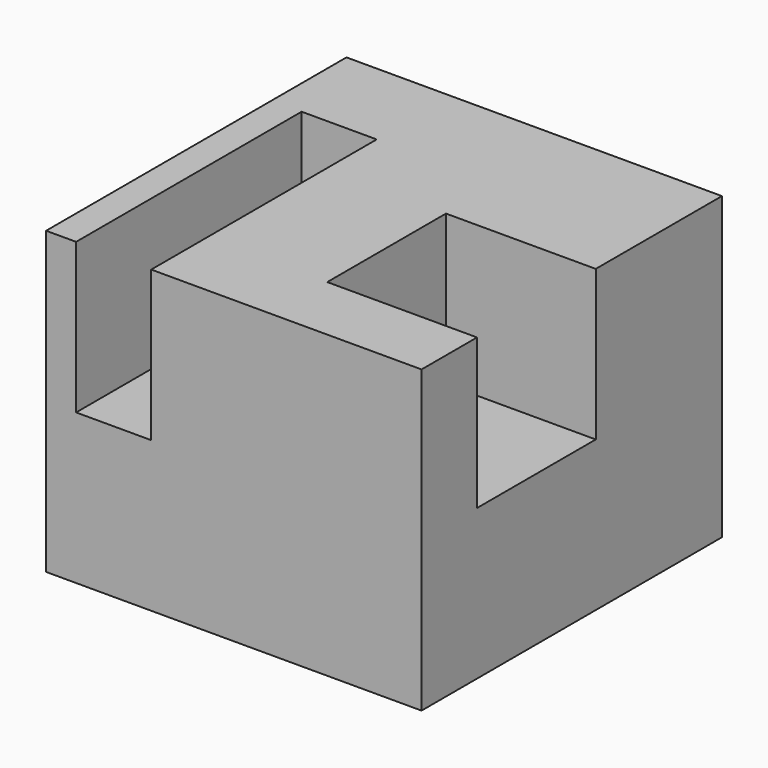
from build123d import *

# Parameters (mm, degrees)
F0_W     = 63.5
F0_H     = 50.8
F1_DEPTH = 63.5
F2_W     = 25.3320866376
F2_H     = 25.1011773944
F2_W_2   = 12.7
F2_H_2   = 63.5
F3_DEPTH = 25.4
F4_W     = 12.7
F4_H     = 15.8308558166
F5_DEPTH = 25.4


with BuildPart() as f1:
    # F0 (on Front) → F1 (new body)
    with BuildSketch(Plane.XZ):
        with Locations((10.4112830013, -5.1873601034)):
            Rectangle(F0_W, F0_H)
    extrude(amount=F1_DEPTH)

    # F2 (on face) → F3 (cut)
    with BuildSketch(Plane.XY.offset(20.2126398966)):
        with Locations((29.4952396825, -39.2205901444)):
            Rectangle(F2_W, F2_H)
        with Locations((-9.9087147206, -31.75)):
            Rectangle(F2_W_2, F2_H_2)
    extrude(amount=-F3_DEPTH, mode=Mode.SUBTRACT)

    # F4 (on face) → F5 (join)
    with BuildSketch(Plane.XY.offset(-5.1873601034)):
        with Locations((-9.9087147206, -7.9154279083)):
            Rectangle(F4_W, F4_H)
    extrude(amount=F5_DEPTH)


solid = f1.part
